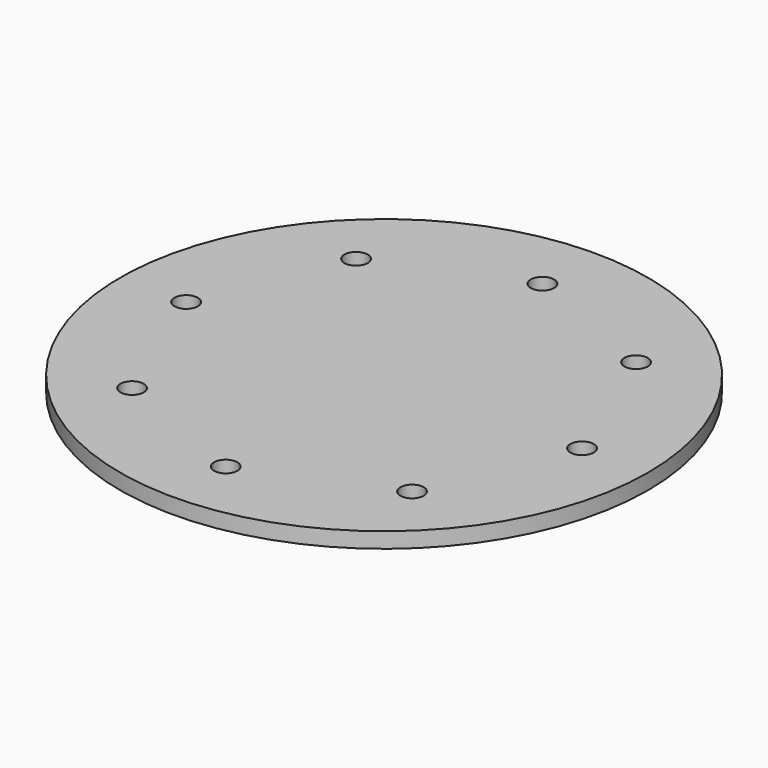
from build123d import *

# Parameters (mm, degrees)
CYLINDER1921_R               = 1.5
CYLINDER1921_DEPTH           = 20
CYLINDER1921_PLACEMENT_ANGLE = 45
CYLINDER1925_R               = 1.5
CYLINDER1925_DEPTH           = 20
CYLINDER1919_R               = 1.5
CYLINDER1919_DEPTH           = 20
CYLINDER1919_PLACEMENT_ANGLE = 135
CYLINDER1920_R               = 1.5
CYLINDER1920_DEPTH           = 20
CYLINDER1922_R               = 1.5
CYLINDER1922_DEPTH           = 20
CYLINDER1922_PLACEMENT_ANGLE = 225
CYLINDER1924_R               = 1.5
CYLINDER1924_DEPTH           = 20
CYLINDER1923_R               = 1.5
CYLINDER1923_DEPTH           = 20
CYLINDER1923_PLACEMENT_ANGLE = 45
CYLINDER1926_R               = 1.5
CYLINDER1926_DEPTH           = 20
CYLINDER1918_R               = 34
CYLINDER1918_DEPTH           = 2


with BuildPart() as obj1:
    # Cylinder1921 → Cylinder1921 (new body)
    with BuildSketch(Plane.XY):
        Circle(CYLINDER1921_R)
    extrude(amount=CYLINDER1921_DEPTH)


with BuildPart() as obj1_1:
    # Cylinder1921 placement: moved
    add(obj1.part.moved(Location((-18.031223, 18.031223, -4))).rotate(Axis((-18.031223, 18.031223, -4), (0, 0, 1)), CYLINDER1921_PLACEMENT_ANGLE))


with BuildPart() as obj2:
    # Cylinder1925 → Cylinder1925 (new body)
    with BuildSketch(Plane(origin=(-25.5, 0, -4), x_dir=(0, 1, 0), z_dir=(0, 0, 1))):
        Circle(CYLINDER1925_R)
    extrude(amount=CYLINDER1925_DEPTH)


with BuildPart() as obj3:
    # Cylinder1919 → Cylinder1919 (new body)
    with BuildSketch(Plane.XY):
        Circle(CYLINDER1919_R)
    extrude(amount=CYLINDER1919_DEPTH)


with BuildPart() as obj3_1:
    # Cylinder1919 placement: moved
    add(obj3.part.moved(Location((-18.031223, -18.031223, -4))).rotate(Axis((-18.031223, -18.031223, -4), (0, 0, 1)), CYLINDER1919_PLACEMENT_ANGLE))


with BuildPart() as obj4:
    # Cylinder1920 → Cylinder1920 (new body)
    with BuildSketch(Plane(origin=(0, -25.5, -4), x_dir=(-1, 0, 0), z_dir=(0, 0, 1))):
        Circle(CYLINDER1920_R)
    extrude(amount=CYLINDER1920_DEPTH)


with BuildPart() as obj5:
    # Cylinder1922 → Cylinder1922 (new body)
    with BuildSketch(Plane.XY):
        Circle(CYLINDER1922_R)
    extrude(amount=CYLINDER1922_DEPTH)


with BuildPart() as obj5_1:
    # Cylinder1922 placement: moved
    add(obj5.part.moved(Location((18.031223, -18.031223, -4))).rotate(Axis((18.031223, -18.031223, -4), (0, 0, 1)), CYLINDER1922_PLACEMENT_ANGLE))


with BuildPart() as obj6:
    # Cylinder1924 → Cylinder1924 (new body)
    with BuildSketch(Plane(origin=(25.5, 0, -4), x_dir=(0, -1, 0), z_dir=(0, 0, 1))):
        Circle(CYLINDER1924_R)
    extrude(amount=CYLINDER1924_DEPTH)


with BuildPart() as obj7:
    # Cylinder1923 → Cylinder1923 (new body)
    with BuildSketch(Plane.XY):
        Circle(CYLINDER1923_R)
    extrude(amount=CYLINDER1923_DEPTH)


with BuildPart() as obj7_1:
    # Cylinder1923 placement: moved
    add(obj7.part.moved(Location((18.031223, 18.031223, -4))).rotate(Axis((18.031223, 18.031223, -4), (0, 0, -1)), CYLINDER1923_PLACEMENT_ANGLE))


with BuildPart() as compound917:
    # Cylinder1926 → Cylinder1926 (new body)
    with BuildSketch(Plane(origin=(0, 25.5, -4), x_dir=(1, 0, 0), z_dir=(0, 0, 1))):
        Circle(CYLINDER1926_R)
    extrude(amount=CYLINDER1926_DEPTH)

    # Compound917: union obj1, obj2, obj3, obj4, obj5, obj6, obj7
    add(obj1_1.part)
    add(obj2.part)
    add(obj3_1.part)
    add(obj4.part)
    add(obj5_1.part)
    add(obj6.part)
    add(obj7_1.part)


with BuildPart() as compound917_1:
    # Compound917 placement: moved
    add(compound917.part.moved(Location((0, 0, 100))))


with BuildPart() as cut564:
    # Cylinder1918 → Cylinder1918 (new body)
    with BuildSketch(Plane.XY.offset(96)):
        Circle(CYLINDER1918_R)
    extrude(amount=CYLINDER1918_DEPTH)

    # Cut564: cut Compound917
    add(compound917_1.part, mode=Mode.SUBTRACT)


with BuildPart() as cut564_1:
    # Cut564 placement: moved
    add(cut564.part.moved(Location((0, 0, 1))))


solid = cut564_1.part
